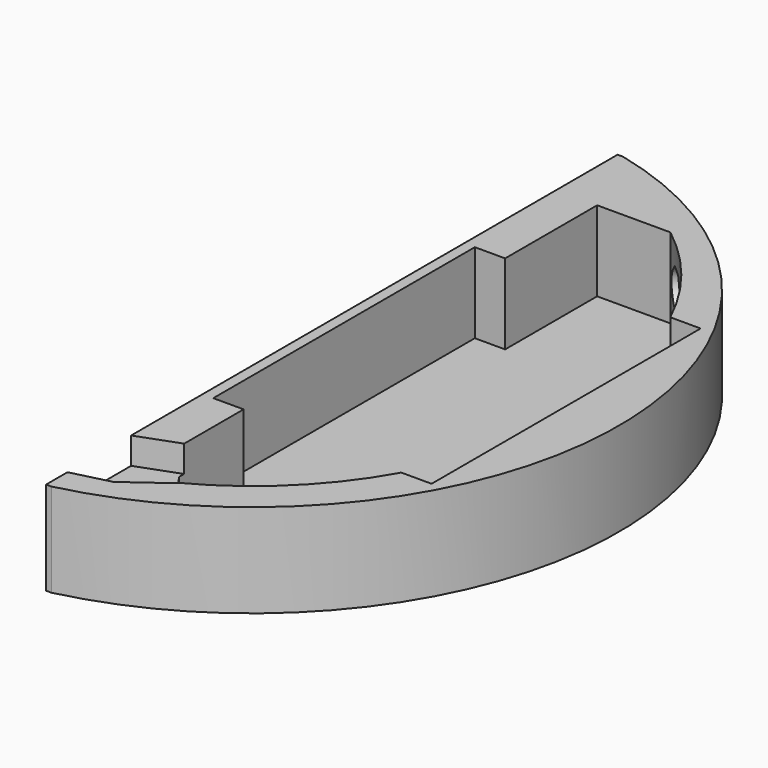
from build123d import *

# Parameters (mm, degrees)
PAD006_DEPTH    = 7
POCKET003_DEPTH = 6.001
POCKET004_DEPTH = 12
POCKET005_DEPTH = 2


with BuildPart() as part:
    # Sketch008 → Pad006 (new body)
    with BuildSketch(Plane.XY):
        with BuildLine():
            ThreePointArc((6.40542, -26.743608), (27.5, 0), (6.40542, 26.743608))
            Line((6.40542, 26.743608), (6, 26.743608))
            Line((6, 26.743608), (6, -26.743608))
            Line((6, -26.743608), (6.40542, -26.743608))
        make_face()
    extrude(amount=PAD006_DEPTH)

    # Sketch009 → Pocket003 (cut, through all)
    with BuildSketch(Plane.XY.offset(1)):
        with BuildLine():
            Line((9.069885, 20.990567), (9.069885, 12.381273))
            Line((6.8, 12.381273), (9.069885, 12.381273))
            Line((6.8, -12.097779), (6.8, 12.381273))
            Line((9.069885, -12.097779), (6.8, -12.097779))
            Line((9.069885, -12.097779), (9.069885, -18.131377))
            Line((9.069885, -18.131377), (11.681826, -21.861614))
            ThreePointArc((11.681826, -21.861614), (17.167285, -17.940734), (21.270115, -12.59))
            Line((23.54, -12.59), (21.270115, -12.59))
            Line((23.54, 12.59), (23.54, -12.59))
            Line((21.270115, 12.59), (23.54, 12.59))
            ThreePointArc((21.270115, 12.59), (18.415103, 17.190589), (14.558075, 20.990567))
            Line((9.069885, 20.990567), (14.558075, 20.990567))
        make_face()
    extrude(amount=POCKET003_DEPTH, mode=Mode.SUBTRACT)

    # Sketch010 → Pocket004 (cut)
    with BuildSketch(Plane(origin=(25, 25, 0), x_dir=(-0.5, 0.866025, 0), z_dir=(0.866025, 0.5, 0))):
        with BuildLine():
            ThreePointArc((-1.06066, 4.96066), (0, 2.4), (1.06066, 4.96066))
            Line((0.62132, 5.4), (1.06066, 4.96066))
            Line((-0.62132, 5.4), (0.62132, 5.4))
            Line((-1.06066, 4.96066), (-0.62132, 5.4))
        make_face()
    extrude(amount=-POCKET004_DEPTH, mode=Mode.SUBTRACT)

    # Sketch011 → Pocket005 (cut)
    with BuildSketch(Plane.XY.offset(7)):
        Polygon((9.546117, -17.484219), (3.82131, -19.595547), (3.82131, -24.962748), (5.727243, -24.812279), (8.868557, -24.025229), (11.914429, -21.802042), align=None)
    extrude(amount=-POCKET005_DEPTH, mode=Mode.SUBTRACT)


solid = part.part
